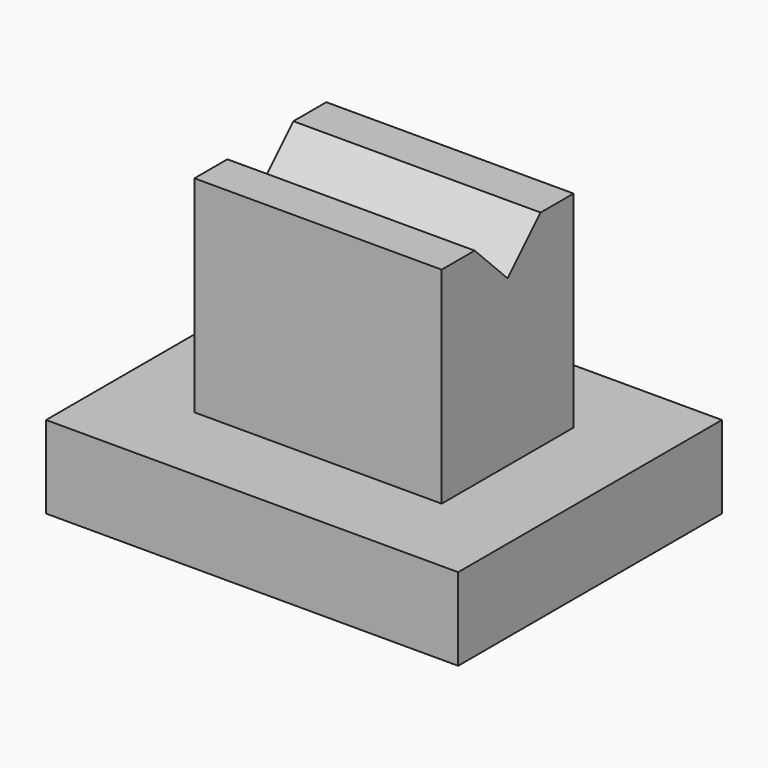
from build123d import *

# Parameters (mm, degrees)
F0_W     = 100
F0_H     = 80
F1_DEPTH = 20
F2_W     = 60
F2_H     = 40
F3_DEPTH = 50
F5_DEPTH = 81


with BuildPart() as f1:
    # F0 (on Top) → F1 (new body)
    with BuildSketch(Plane.XY):
        Rectangle(F0_W, F0_H)
    extrude(amount=F1_DEPTH)

    # F2 (on face) → F3 (join)
    with BuildSketch(Plane.XY.offset(20)):
        Rectangle(F2_W, F2_H)
    extrude(amount=F3_DEPTH)

    # F4 (on face) → F5 (cut)
    with BuildSketch(Plane(origin=(-30, 0, 0), x_dir=(0, -1, 0), z_dir=(-1, 0, 0))):
        Polygon((10, 70), (-10, 70), (0, 60), align=None)
    extrude(amount=-F5_DEPTH, mode=Mode.SUBTRACT)


solid = f1.part
